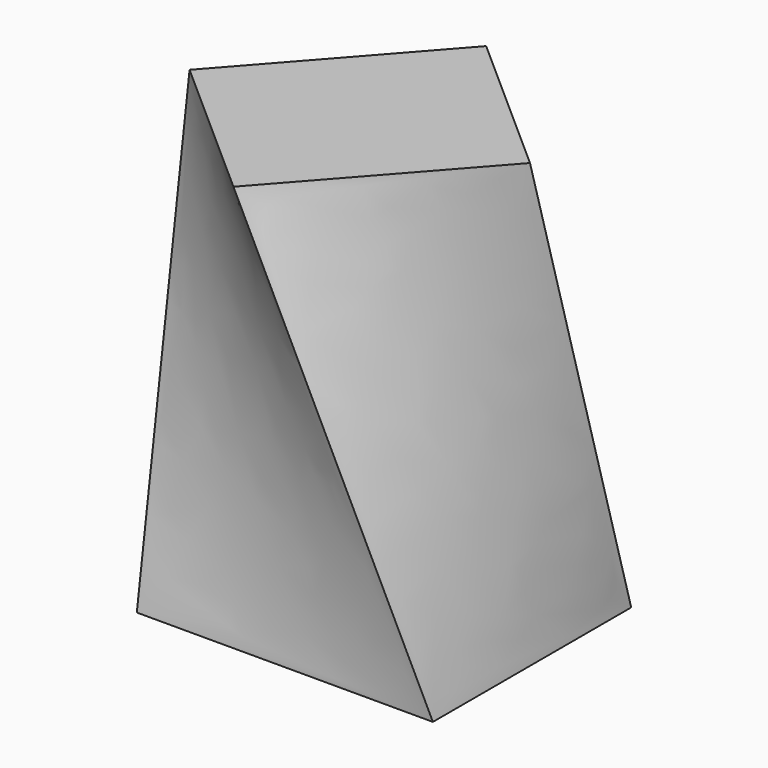
from build123d import *

# Parameters (mm, degrees)
F0_W = 172.9693263769
F0_H = 144.8112800717


with BuildPart() as f3:
    # F2 (on offset) → F3 section 0
    with BuildSketch(Plane.XY.offset(254)):
        Polygon((87.7812057734, 2.4451629724), (0, 80.1391676068), (-90.9983858346, -22.6737594598), (-3.2171800612, -100.3677640942), align=None)
    # F0 (on Top) → F3 section 1
    with BuildSketch(Plane.XY):
        with Locations((6.831869483, -2.9803924263)):
            Rectangle(F0_W, F0_H)
    loft()


solid = f3.part
